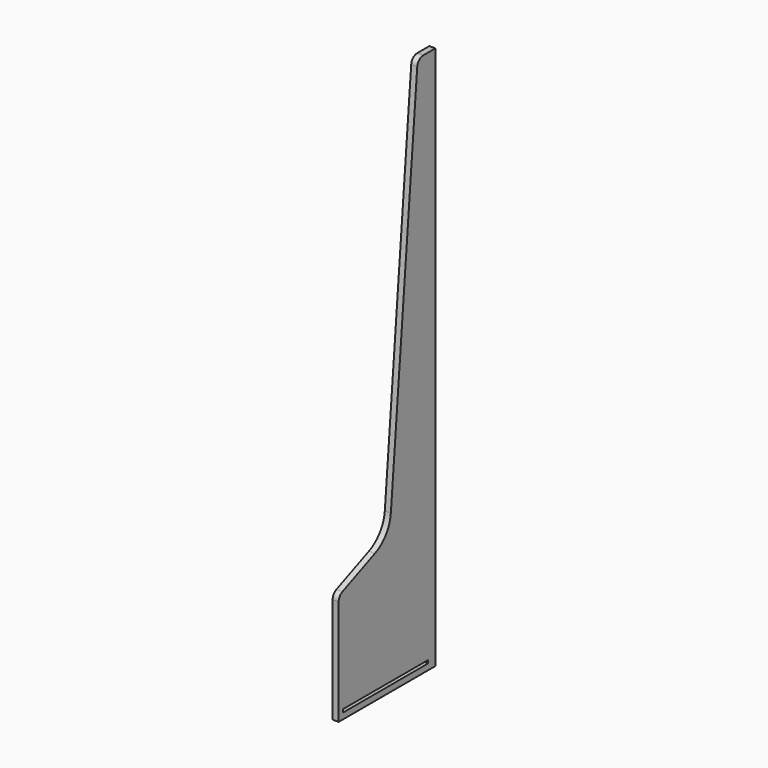
from build123d import *

# Parameters (mm, degrees)
F1_DEPTH = 20


with BuildPart() as f1:
    # F0 (on Right) → F1 (new body)
    with BuildSketch(Plane.YZ):
        with BuildLine():
            Line((0, -1556.362134), (0, 243.637866))
            Line((0, 243.637866), (-50, 243.637866))
            ThreePointArc((-50, 243.637866), (-66.895002, 237.06499), (-74.906104, 220.802577))
            Line((-74.906104, 220.802577), (-184.120393, -1035.763287))
            ThreePointArc((-184.120393, -1035.763287), (-204.473851, -1090.214963), (-250, -1126.362134))
            Line((-250, -1126.362134), (-384.736653, -1183.336114))
            ThreePointArc((-384.736653, -1183.336114), (-395.837662, -1192.549392), (-400, -1206.362134))
            Line((-400, -1206.362134), (-400, -1556.362134))
            Line((-400, -1556.362134), (0, -1556.362134))
        make_face()
        Polygon((-30, 233.637866), (-10, 233.637866), (-10, -1536.362134), (-30, -1536.362134), (-382.540941, -1536.362134), (-382.540941, -1526.362134), (-30, -1526.362134), align=None, mode=Mode.SUBTRACT)
        Polygon((-10, -1536.362134), (-10, 233.637866), (-30, 233.637866), (-30, -1526.362134), (-30, -1536.362134), align=None)
    extrude(amount=F1_DEPTH)


solid = f1.part
